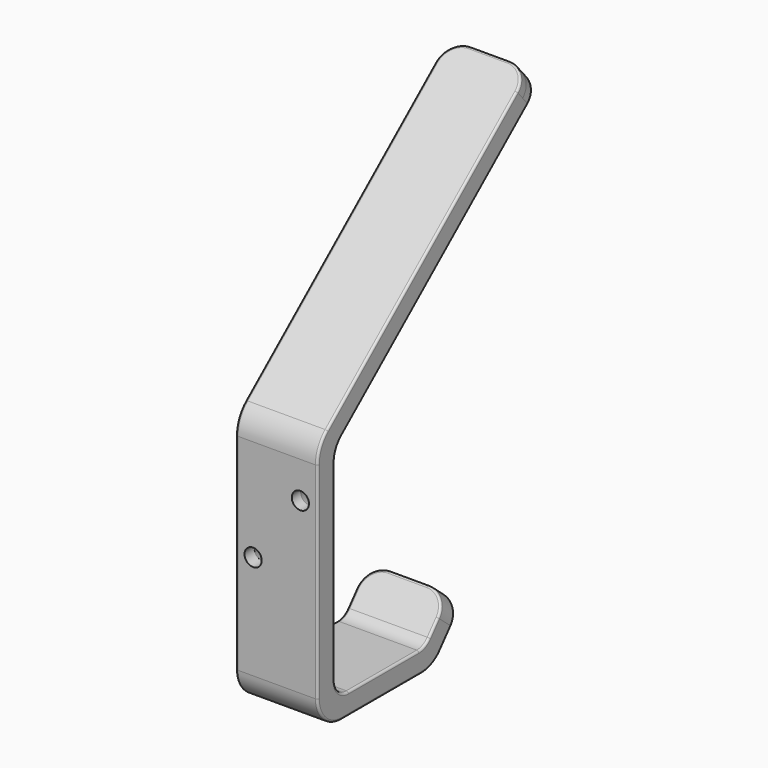
from build123d import *

# Parameters (mm, degrees)
F1_DEPTH        = 19
F2_R            = 8
F3_R            = 6
F4_R            = 7
F5_R            = 4
F6_R            = 7
F7_R            = 4
F8_R            = 5
F9_R            = 5
F10_R           = 5
F11_R           = 5
F13_D           = 4
F13_CSINK_D     = 6
F13_CSINK_ANGLE = 45
F15_D           = 4
F15_CSINK_D     = 6
F15_CSINK_ANGLE = 50
F16_R           = 0.5
F17_R           = 0.5


with BuildPart() as f1:
    # F0 (on Right) → F1 (new body)
    with BuildSketch(Plane.YZ):
        Polygon((39.676629, 7.524151), (37.771781, 9.143272), (35.866933, 10.762393), (28.843899, 2.5), (2.5, 2.5), (2.5, 53.842919), (62.606462, 104.866631), (60.988571, 106.772524), (59.370679, 108.678417), (-2.5, 56.157081), (-2.5, -2.5), (0, -2.5), (31.156101, -2.5), align=None)
    extrude(amount=-F1_DEPTH)

    # F2
    f2_edges = [f1.edges().sort_by_distance(p)[0] for p in [
        (-9.5, -2.5, 56.157081),
    ]]
    fillet(f2_edges, radius=F2_R)

    # F3
    f3_edges = [f1.edges().sort_by_distance(p)[0] for p in [
        (-9.5, 2.5, 53.842919),
    ]]
    fillet(f3_edges, radius=F3_R)

    # F4
    f4_edges = [f1.edges().sort_by_distance(p)[0] for p in [
        (-9.5, -2.5, -2.5),
    ]]
    fillet(f4_edges, radius=F4_R)

    # F5
    f5_edges = [f1.edges().sort_by_distance(p)[0] for p in [
        (-9.5, 2.5, 2.5),
    ]]
    fillet(f5_edges, radius=F5_R)

    # F6
    f6_edges = [f1.edges().sort_by_distance(p)[0] for p in [
        (-9.5, 31.156101, -2.5),
    ]]
    fillet(f6_edges, radius=F6_R)

    # F7
    f7_edges = [f1.edges().sort_by_distance(p)[0] for p in [
        (-9.5, 28.843899, 2.5),
    ]]
    fillet(f7_edges, radius=F7_R)

    # F8
    f8_edges = [f1.edges().sort_by_distance(p)[0] for p in [
        (0, 60.988571, 106.772524),
    ]]
    fillet(f8_edges, radius=F8_R)

    # F9
    f9_edges = [f1.edges().sort_by_distance(p)[0] for p in [
        (-19, 60.988571, 106.772524),
    ]]
    fillet(f9_edges, radius=F9_R)

    # F10
    f10_edges = [f1.edges().sort_by_distance(p)[0] for p in [
        (-19, 37.771781, 9.143272),
    ]]
    fillet(f10_edges, radius=F10_R)

    # F11
    f11_edges = [f1.edges().sort_by_distance(p)[0] for p in [
        (0, 37.771781, 9.143272),
    ]]
    fillet(f11_edges, radius=F11_R)

    # F13 (through all)
    with Locations(Plane(origin=(0, 2.5, 0), x_dir=(-1, 0, 0), z_dir=(0, 1, 0))):
        with Locations((4, 43.998878)):
            CounterSinkHole(F13_D / 2, F13_CSINK_D / 2, counter_sink_angle=F13_CSINK_ANGLE)

    # F15 (through all)
    with Locations(Plane(origin=(0, 2.5, 0), x_dir=(-1, 0, 0), z_dir=(0, 1, 0))):
        with Locations((15, 28.782963)):
            CounterSinkHole(F15_D / 2, F15_CSINK_D / 2, counter_sink_angle=F15_CSINK_ANGLE)

    # F16
    f16_edges = [f1.edges().sort_by_distance(p)[0] for p in [
        (0, 27.940821, 81.997957),
    ]]
    fillet(f16_edges, radius=F16_R)

    # F17
    f17_edges = [f1.edges().sort_by_distance(p)[0] for p in [
        (0, 31.705869, 78.635459),
    ]]
    fillet(f17_edges, radius=F17_R)


solid = f1.part
